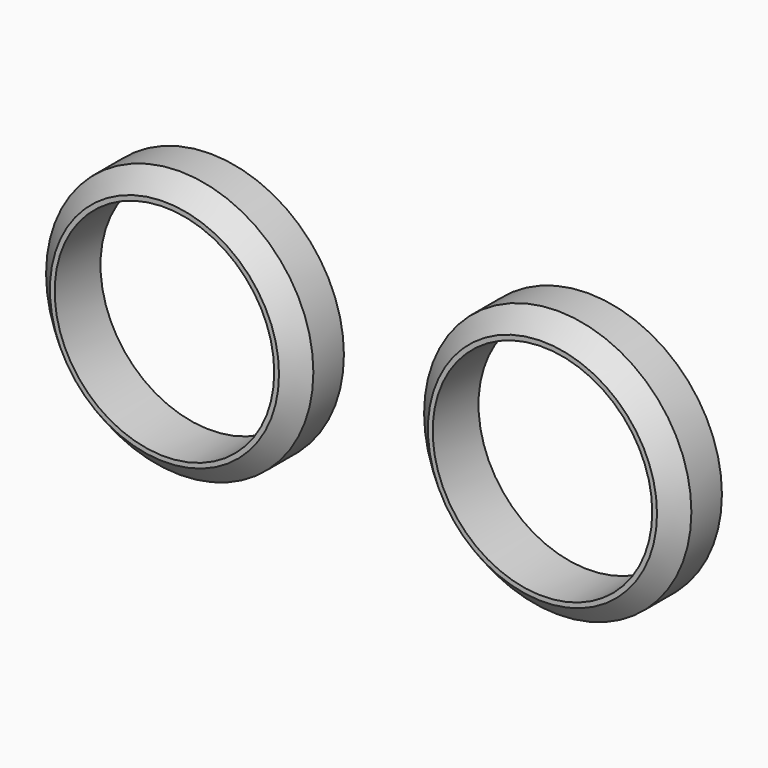
from build123d import *

# Parameters (mm, degrees)
F0_R     = 7
F0_R_2   = 5.75
F1_DEPTH = 3
F2_SIZE  = 1


with BuildPart() as f1:
    # F0 (on Front) → F1 (new body)
    with BuildSketch(Plane.XZ):
        Circle(F0_R)
        Circle(F0_R_2, mode=Mode.SUBTRACT)
    extrude(amount=F1_DEPTH)

    # F2
    f2_edges = [f1.edges().sort_by_distance(p)[0] for p in [
        (-7, -3, 0),
    ]]
    chamfer(f2_edges, length=F2_SIZE)


with BuildPart() as f3_1:
    # F3: copy of F1
    add(f1.part.moved(Location((19.8, 0, 0))))


solid = Compound([f1.part, f3_1.part])
